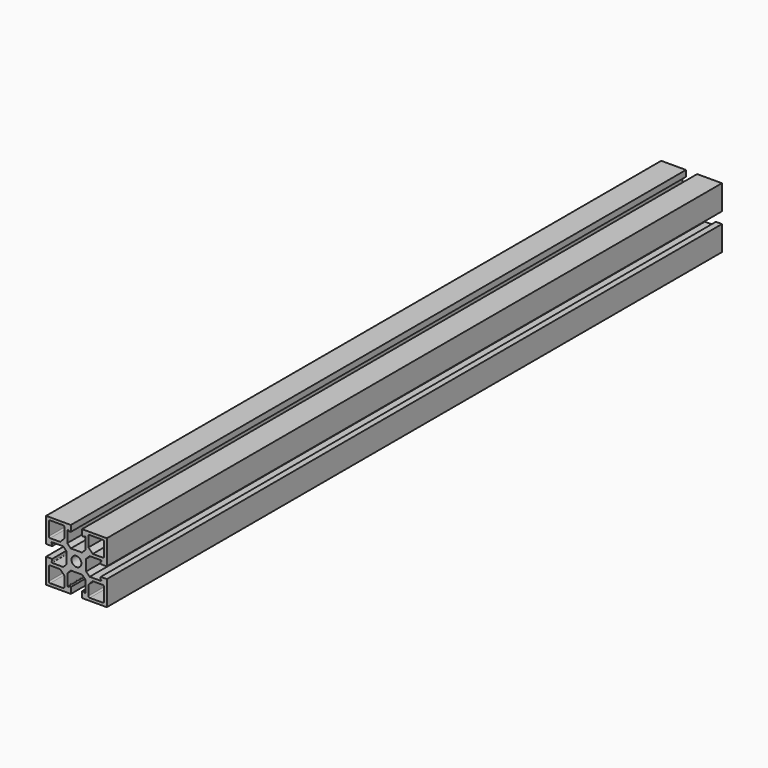
from build123d import *

# Parameters (mm, degrees)
F0_R     = 3.647768
F1_DEPTH = 570


with BuildPart() as f1:
    # F0 (on Front) → F1 (new body)
    with BuildSketch(Plane.XZ):
        with BuildLine():
            Line((-4.15, 22.5), (-22.5, 22.5))
            Line((-22.5, 22.5), (-22.5, 4.15))
            Line((-22.5, 4.15), (-18, 4.15))
            Line((-18, 4.15), (-18, 5.75))
            ThreePointArc((-18, 5.75), (-18.5, 6.25), (-18, 6.75))
            Line((-18, 6.75), (-9.8, 6.75))
            Line((-9.8, 6.75), (-7.2, 4.15))
            Line((-7.2, 4.15), (-7.2, -4.15))
            Line((-7.2, -4.15), (-9.8, -6.75))
            Line((-9.8, -6.75), (-18, -6.75))
            ThreePointArc((-18, -6.75), (-18.5, -6.25), (-18, -5.75))
            Line((-18, -5.75), (-18, -4.15))
            Line((-18, -4.15), (-22.5, -4.15))
            Line((-22.5, -4.15), (-22.5, -22.5))
            Line((-22.5, -22.5), (-4.15, -22.5))
            Line((-4.15, -22.5), (-4.15, -18))
            Line((-4.15, -18), (-5.75, -18))
            ThreePointArc((-5.75, -18), (-6.25, -18.5), (-6.75, -18))
            Line((-6.75, -18), (-6.75, -9.8))
            Line((-6.75, -9.8), (-4.15, -7.2))
            Line((-4.15, -7.2), (4.15, -7.2))
            Line((4.15, -7.2), (6.75, -9.8))
            Line((6.75, -9.8), (6.75, -18))
            ThreePointArc((6.75, -18), (6.25, -18.5), (5.75, -18))
            Line((5.75, -18), (4.15, -18))
            Line((4.15, -18), (4.15, -22.5))
            Line((4.15, -22.5), (22.5, -22.5))
            Line((22.5, -22.5), (22.5, -4.15))
            Line((22.5, -4.15), (18, -4.15))
            Line((18, -4.15), (18, -5.75))
            ThreePointArc((18, -5.75), (18.5, -6.25), (18, -6.75))
            Line((18, -6.75), (9.8, -6.75))
            Line((9.8, -6.75), (7.2, -4.15))
            Line((7.2, -4.15), (7.2, 4.15))
            Line((7.2, 4.15), (9.8, 6.75))
            Line((9.8, 6.75), (18, 6.75))
            ThreePointArc((18, 6.75), (18.5, 6.25), (18, 5.75))
            Line((18, 5.75), (18, 4.15))
            Line((18, 4.15), (22.5, 4.15))
            Line((22.5, 4.15), (22.5, 22.5))
            Line((22.5, 22.5), (4.15, 22.5))
            Line((4.15, 22.5), (4.15, 18))
            Line((4.15, 18), (5.75, 18))
            ThreePointArc((5.75, 18), (6.25, 18.5), (6.75, 18))
            Line((6.75, 18), (6.75, 9.8))
            Line((6.75, 9.8), (4.15, 7.2))
            Line((4.15, 7.2), (-4.15, 7.2))
            Line((-4.15, 7.2), (-6.75, 9.8))
            Line((-6.75, 9.8), (-6.75, 18))
            ThreePointArc((-6.75, 18), (-6.25, 18.5), (-5.75, 18))
            Line((-5.75, 18), (-4.15, 18))
            Line((-4.15, 18), (-4.15, 22.5))
        make_face()
        with BuildLine():
            Line((-8.9, -12.1), (-8.9, -19.5))
            ThreePointArc((-8.9, -19.5), (-9.192893, -20.207107), (-9.9, -20.5))
            Line((-9.9, -20.5), (-19.5, -20.5))
            ThreePointArc((-19.5, -20.5), (-20.207107, -20.207107), (-20.5, -19.5))
            Line((-20.5, -19.5), (-20.5, -9.9))
            ThreePointArc((-20.5, -9.9), (-20.207107, -9.192893), (-19.5, -8.9))
            Line((-19.5, -8.9), (-12.1, -8.9))
            Line((-12.1, -8.9), (-8.9, -12.1))
        make_face(mode=Mode.SUBTRACT)
        with BuildLine():
            Line((8.9, -12.1), (12.1, -8.9))
            Line((12.1, -8.9), (19.5, -8.9))
            ThreePointArc((19.5, -8.9), (20.207107, -9.192893), (20.5, -9.9))
            Line((20.5, -9.9), (20.5, -19.5))
            ThreePointArc((20.5, -19.5), (20.207107, -20.207107), (19.5, -20.5))
            Line((19.5, -20.5), (9.9, -20.5))
            ThreePointArc((9.9, -20.5), (9.192893, -20.207107), (8.9, -19.5))
            Line((8.9, -19.5), (8.9, -12.1))
        make_face(mode=Mode.SUBTRACT)
        with BuildLine():
            ThreePointArc((-20.5, 19.5), (-20.207107, 20.207107), (-19.5, 20.5))
            Line((-19.5, 20.5), (-9.9, 20.5))
            ThreePointArc((-9.9, 20.5), (-9.192893, 20.207107), (-8.9, 19.5))
            Line((-8.9, 19.5), (-8.9, 12.1))
            Line((-8.9, 12.1), (-12.1, 8.9))
            Line((-12.1, 8.9), (-19.5, 8.9))
            ThreePointArc((-19.5, 8.9), (-20.207107, 9.192893), (-20.5, 9.9))
            Line((-20.5, 9.9), (-20.5, 19.5))
        make_face(mode=Mode.SUBTRACT)
        Circle(F0_R, mode=Mode.SUBTRACT)
        with BuildLine():
            Line((12.1, 8.9), (8.9, 12.1))
            Line((8.9, 12.1), (8.9, 19.5))
            ThreePointArc((8.9, 19.5), (9.192893, 20.207107), (9.9, 20.5))
            Line((9.9, 20.5), (19.5, 20.5))
            ThreePointArc((19.5, 20.5), (20.207107, 20.207107), (20.5, 19.5))
            Line((20.5, 19.5), (20.5, 9.9))
            ThreePointArc((20.5, 9.9), (20.207107, 9.192893), (19.5, 8.9))
            Line((19.5, 8.9), (12.1, 8.9))
        make_face(mode=Mode.SUBTRACT)
    extrude(amount=F1_DEPTH)


solid = f1.part
